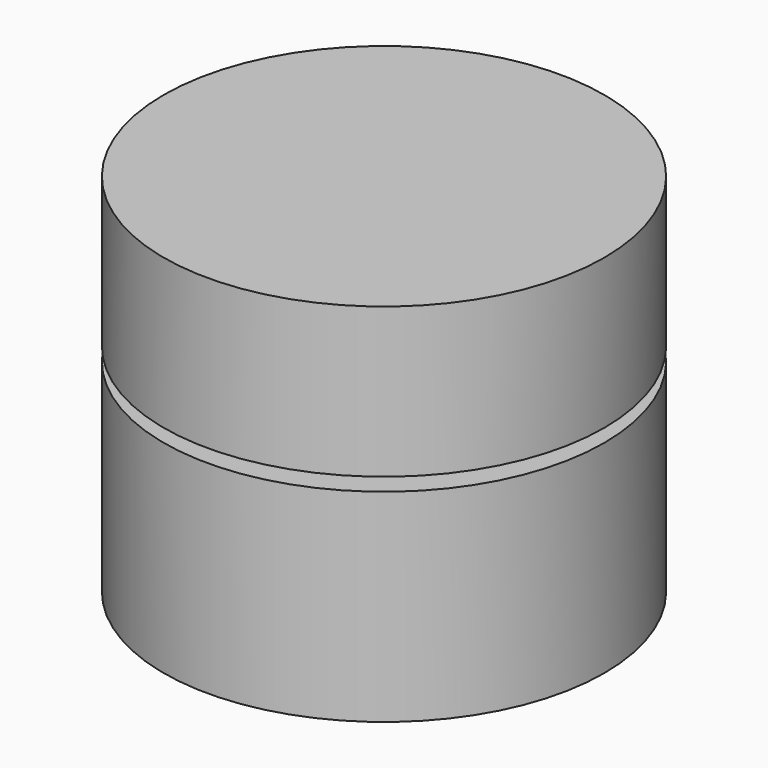
from build123d import *

# Parameters (mm, degrees)
F0_R     = 2.5
F0_R_2   = 1.8
F1_DEPTH = 3
F2_DEPTH = 0.7
F3_R     = 2.5
F3_R_2   = 2.1
F4_DEPTH = 0.7


with BuildPart() as f1:
    # F0 (on Top) → F1 (new body)
    with BuildSketch(Plane.XY):
        Circle(F0_R)
        Circle(F0_R_2, mode=Mode.SUBTRACT)
    extrude(amount=F1_DEPTH)

    # F0 (on Top) → F2 (join)
    with BuildSketch(Plane.XY):
        Circle(F0_R_2)
    extrude(amount=F2_DEPTH)

    # F3 (on face) → F4 (cut)
    with BuildSketch(Plane.XY.offset(3)):
        Circle(F3_R)
        Circle(F3_R_2, mode=Mode.SUBTRACT)
    extrude(amount=-F4_DEPTH, mode=Mode.SUBTRACT)


with BuildPart() as f6:
    # F5 (on Front) → F6 (revolve)
    with BuildSketch(Plane.XZ):
        Polygon((-2.5, 4.15), (-2.5, 2.45), (-2.2, 2.45), (-2.2, 3.15), (-1.8, 3.15), (-1.8, 3.45), (0, 3.45), (0, 4.15), align=None)
    revolve(axis=Axis((0, 0, 2.075), (0, 0, -1)))


solid = Compound([f1.part, f6.part])
